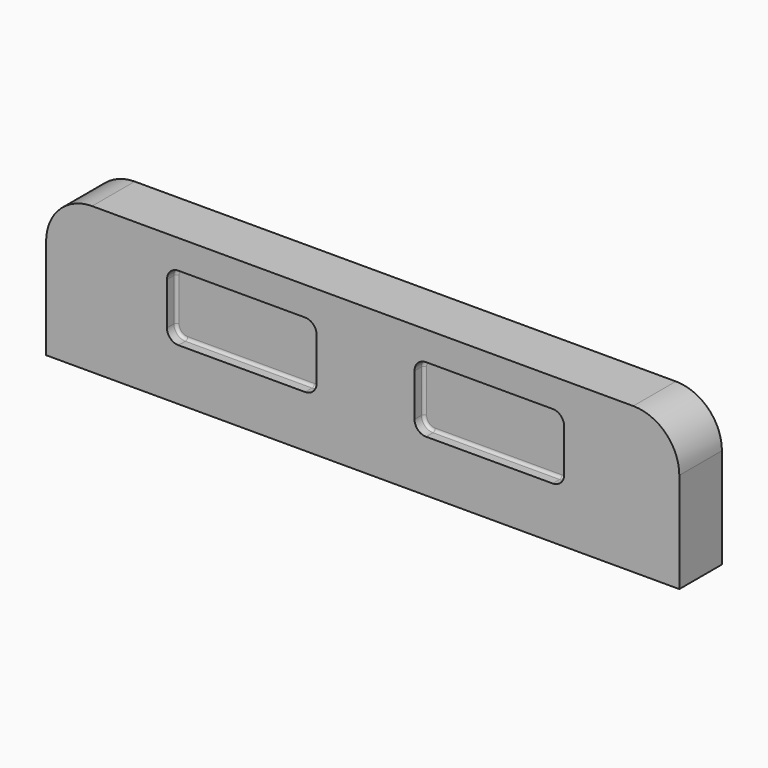
from build123d import *

# Parameters (mm, degrees)
F0_W     = 110
F0_H     = 25.4
F1_DEPTH = 4.625
F3_DEPTH = 2
F4_R     = 0.5
F5_R     = 8


with BuildPart() as f1:
    # F0 (on Front) → F1 (new body, symmetric)
    with BuildSketch(Plane.XZ):
        with Locations((54, 12.7)):
            Rectangle(F0_W, F0_H)
    extrude(amount=F1_DEPTH, both=True)

    # F2 (on face) → F3 (cut)
    with BuildSketch(Plane.XZ.offset(4.625)):
        with BuildLine():
            ThreePointArc((20, 11), (20.585786, 9.585786), (22, 9))
            Line((22, 9), (44, 9))
            ThreePointArc((44, 9), (45.414214, 9.585786), (46, 11))
            Line((46, 11), (46, 18.4))
            ThreePointArc((46, 18.4), (45.414214, 19.814214), (44, 20.4))
            Line((44, 20.4), (22, 20.4))
            ThreePointArc((22, 20.4), (20.585786, 19.814214), (20, 18.4))
            Line((20, 18.4), (20, 11))
        make_face()
        with BuildLine():
            Line((87, 20.4), (65, 20.4))
            ThreePointArc((65, 20.4), (63.585786, 19.814214), (63, 18.4))
            Line((63, 18.4), (63, 11))
            ThreePointArc((63, 11), (63.585786, 9.585786), (65, 9))
            Line((65, 9), (87, 9))
            ThreePointArc((87, 9), (88.414214, 9.585786), (89, 11))
            Line((89, 11), (89, 18.4))
            ThreePointArc((89, 18.4), (88.414214, 19.814214), (87, 20.4))
        make_face()
    extrude(amount=-F3_DEPTH, mode=Mode.SUBTRACT)

    # F4
    f4_edges = [f1.edges().sort_by_distance(p)[0] for p in [
        (89, -2.625, 14.7),
        (46, -2.625, 14.7),
    ]]
    fillet(f4_edges, radius=F4_R)

    # F5
    f5_edges = [f1.edges().sort_by_distance(p)[0] for p in [
        (109, 0, 25.4),
        (-1, 0, 25.4),
    ]]
    fillet(f5_edges, radius=F5_R)


solid = f1.part
